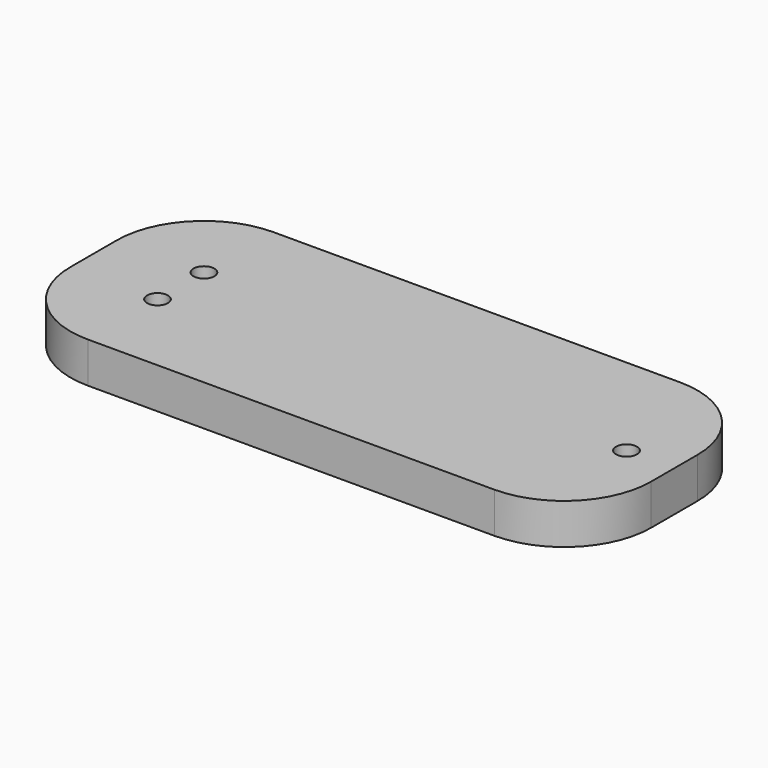
from build123d import *

# Parameters (mm, degrees)
F1_DEPTH = 3.5
F2_R     = 1.8
F3_DEPTH = 8
F4_R     = 1.8
F5_DEPTH = 8000


with BuildPart() as f1:
    # F0 (on Top) → F1 (new body, symmetric)
    with BuildSketch(Plane.XY):
        with BuildLine():
            ThreePointArc((50, 5), (45.606602, 15.606602), (35, 20))
            Line((35, 20), (-35, 20))
            ThreePointArc((-35, 20), (-45.606602, 15.606602), (-50, 5))
            Line((-50, 5), (-50, -5))
            ThreePointArc((-50, -5), (-45.606602, -15.606602), (-35, -20))
            Line((-35, -20), (35, -20))
            ThreePointArc((35, -20), (45.606602, -15.606602), (50, -5))
            Line((50, -5), (50, 5))
        make_face()
    extrude(amount=F1_DEPTH, both=True)

    # F2 (on face) → F3 (cut)
    with BuildSketch(Plane.XY.offset(3.5)):
        with Locations((-35, 5)):
            Circle(F2_R)
        with Locations((-35, -5)):
            Circle(F2_R)
    extrude(amount=-F3_DEPTH, mode=Mode.SUBTRACT)

    # F4 (on face) → F5 (cut)
    with BuildSketch(Plane.XY.offset(3.5)):
        with Locations((41.754141, 0)):
            Circle(F4_R)
    extrude(amount=-F5_DEPTH, mode=Mode.SUBTRACT)


solid = f1.part
